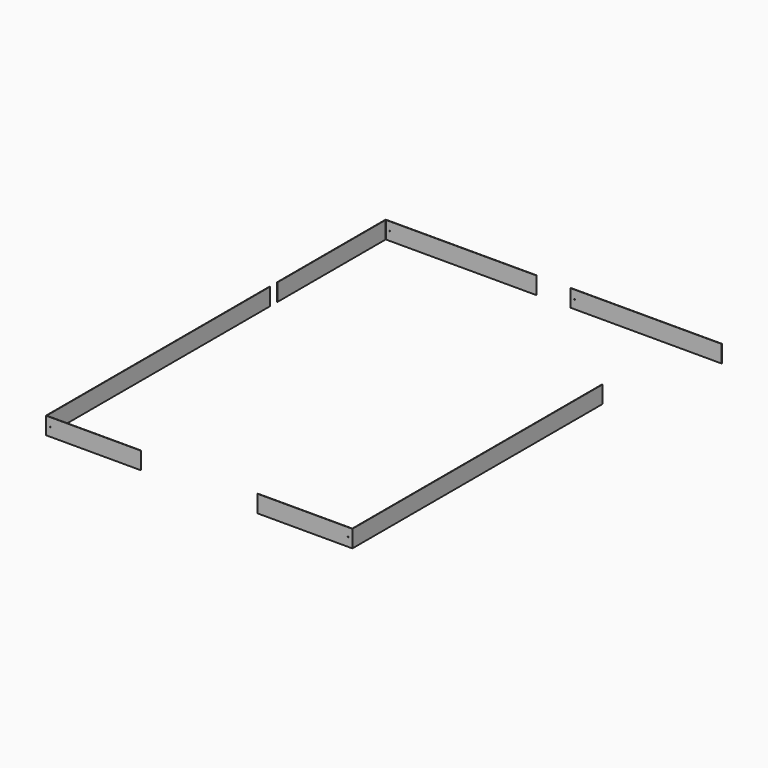
from build123d import *

# Parameters (mm, degrees)
F0_W     = 875
F0_H     = 2
F1_DEPTH = 100
F2_R     = 2.5
F3_DEPTH = 25
F4_R     = 2.5
F5_DEPTH = 25
F6_R     = 2.5
F7_DEPTH = 25
F8_R     = 2.5
F9_DEPTH = 25


with BuildPart() as f1:
    # F0 (on Top) → F1 (new body)
    with BuildSketch(Plane.XY):
        with BuildLine():
            Line((-339.266385, -482.276845), (-339.266385, -480.276845))
            Line((-339.266385, -480.276845), (-886.266385, -480.276845))
            ThreePointArc((-886.266385, -480.276845), (-886.973492, -479.983952), (-887.266385, -479.276845))
            Line((-887.266385, -479.276845), (-887.266385, 1137.723155))
            Line((-887.266385, 1137.723155), (-889.266385, 1137.723155))
            Line((-889.266385, 1137.723155), (-889.266385, -481.276845))
            ThreePointArc((-889.266385, -481.276845), (-888.973492, -481.983952), (-888.266385, -482.276845))
            Line((-888.266385, -482.276845), (-339.266385, -482.276845))
        make_face()
        with BuildLine():
            Line((882.266377, -480.276845), (335.266377, -480.276845))
            Line((335.266377, -480.276845), (335.266377, -482.276845))
            Line((335.266377, -482.276845), (884.266377, -482.276845))
            ThreePointArc((884.266377, -482.276845), (884.973484, -481.983952), (885.266377, -481.276845))
            Line((885.266377, -481.276845), (885.266377, 1327.723155))
            Line((885.266377, 1327.723155), (883.266377, 1327.723155))
            Line((883.266377, 1327.723155), (883.266377, -479.276845))
            ThreePointArc((883.266377, -479.276845), (882.973484, -479.983952), (882.266377, -480.276845))
        make_face()
        with BuildLine():
            Line((-889.266385, 1975.69333), (-889.266385, 1191.69333))
            Line((-889.266385, 1191.69333), (-887.266385, 1191.69333))
            Line((-887.266385, 1191.69333), (-887.266385, 1973.69333))
            ThreePointArc((-887.266385, 1973.69333), (-886.973492, 1974.400437), (-886.266385, 1974.69333))
            Line((-886.266385, 1974.69333), (-14.266385, 1974.69333))
            Line((-14.266385, 1974.69333), (-14.266385, 1976.69333))
            Line((-14.266385, 1976.69333), (-888.266385, 1976.69333))
            ThreePointArc((-888.266385, 1976.69333), (-888.973492, 1976.400437), (-889.266385, 1975.69333))
        make_face()
        with Locations((620.660365, 1975.69333)):
            Rectangle(F0_W, F0_H)
    extrude(amount=F1_DEPTH)

    # F2 (on face) → F3 (cut)
    with BuildSketch(Plane(origin=(0, 1976.69333, 0), x_dir=(-1, 0, 0), z_dir=(0, 1, 0))):
        with Locations((864.266385, 50)):
            Circle(F2_R)
    extrude(amount=-F3_DEPTH, mode=Mode.SUBTRACT)

    # F4 (on face) → F5 (cut)
    with BuildSketch(Plane.XZ.offset(482.276845)):
        with Locations((-864.266385, 50)):
            Circle(F4_R)
    extrude(amount=-F5_DEPTH, mode=Mode.SUBTRACT)

    # F6 (on face) → F7 (cut)
    with BuildSketch(Plane.XZ.offset(482.276845)):
        with Locations((860.266377, 50)):
            Circle(F6_R)
    extrude(amount=-F7_DEPTH, mode=Mode.SUBTRACT)

    # F8 (on face) → F9 (cut)
    with BuildSketch(Plane.XZ.offset(-1974.69333)):
        with Locations((205.660365, 50)):
            Circle(F8_R)
    extrude(amount=-F9_DEPTH, mode=Mode.SUBTRACT)


solid = f1.part
